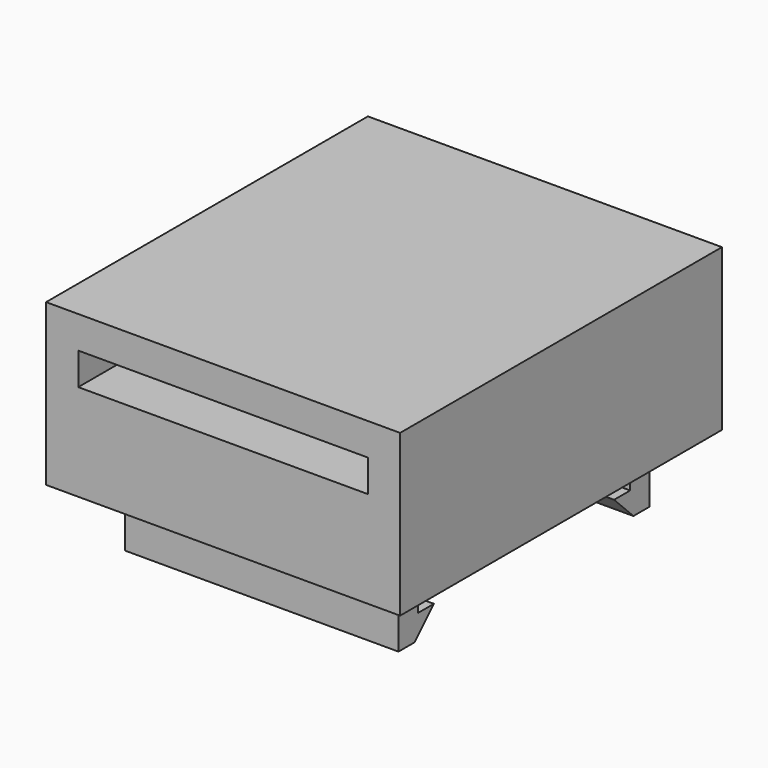
from build123d import *

# Parameters (mm, degrees)
F0_W     = 22
F0_H     = 25
F1_DEPTH = 10
F2_W     = 18
F2_H     = 2
F3_DEPTH = 25
F4_W     = 17
F4_H     = 1.5
F5_DEPTH = 4
F7_DEPTH = 17
F8_DEPTH = 17


with BuildPart() as f1:
    # F0 (on Top) → F1 (new body)
    with BuildSketch(Plane.XY):
        with Locations((2.886561, 7.892089)):
            Rectangle(F0_W, F0_H)
    extrude(amount=F1_DEPTH)

    # F2 (on face) → F3 (cut, through all)
    with BuildSketch(Plane.XZ.offset(4.607911)):
        with Locations((2.886561, 7)):
            Rectangle(F2_W, F2_H)
    extrude(amount=-F3_DEPTH, mode=Mode.SUBTRACT)


with BuildPart() as f5:
    # F4 (on face) → F5 (new body)
    with BuildSketch(Plane(origin=(0, 0, 0), x_dir=(1, 0, 0), z_dir=(0, 0, -1))):
        with Locations((2.886561, 0.857911)):
            Rectangle(F4_W, F4_H)
    extrude(amount=F5_DEPTH)

    # F6 (on face) → F7 (join, through all)
    with BuildSketch(Plane(origin=(-5.613439, 0, 0), x_dir=(0, -1, 0), z_dir=(-1, 0, 0))):
        Polygon((0.107911, -3.75), (0.107911, -2.5), (-1.142089, -2.5), align=None)
    extrude(amount=-F7_DEPTH)

    # F6 (on face) → F8 (cut, through all)
    with BuildSketch(Plane(origin=(-5.613439, 0, 0), x_dir=(0, -1, 0), z_dir=(-1, 0, 0))):
        Polygon((0.357911, -4), (0.107911, -3.75), (0.107911, -4), align=None)
    extrude(amount=-F8_DEPTH, mode=Mode.SUBTRACT)


with BuildPart() as f9_1:
    # F9: instance of F5
    add(f5.part.mirror(Plane(origin=(2.886561, -0.107911, -1.25), x_dir=(-1, 0, 0), z_dir=(0, 1, 0))))


with BuildPart() as f9_1_1:
    # F10: moved
    add(f9_1.part.moved(Location((0, 16.5, 0))))


solid = Compound([f1.part, f5.part, f9_1_1.part])
